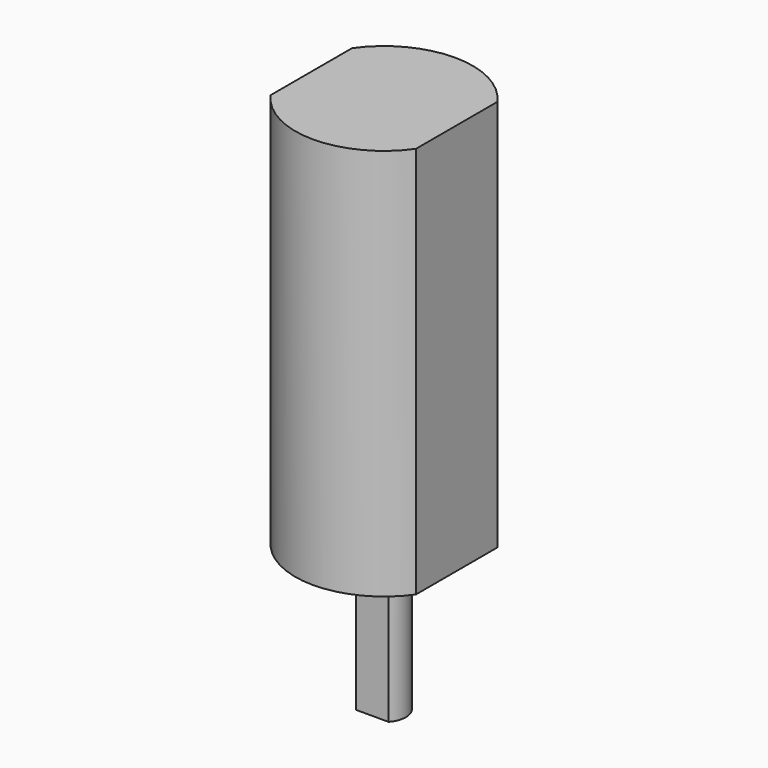
from build123d import *

# Parameters (mm, degrees)
F2_DEPTH = 27
F3_DEPTH = 10


with BuildPart() as f2:
    # F0 (on Top) → F2 (new body)
    with BuildSketch(Plane.XY):
        with BuildLine():
            Line((5, -3.500387), (5, 3.500387))
            ThreePointArc((5, 3.500387), (0, 6.1035), (-5, 3.500387))
            Line((-5, 3.500387), (-5, -3.500387))
            ThreePointArc((-5, -3.500387), (0, -6.1035), (5, -3.500387))
        make_face()
    extrude(amount=F2_DEPTH)

    # F1 (on face) → F3 (join)
    with BuildSketch(Plane.XY):
        with BuildLine():
            Line((-1.118034, -1), (1.118034, -1))
            ThreePointArc((1.118034, -1), (0, 1.5), (-1.118034, -1))
        make_face()
    extrude(amount=-F3_DEPTH)


solid = f2.part
